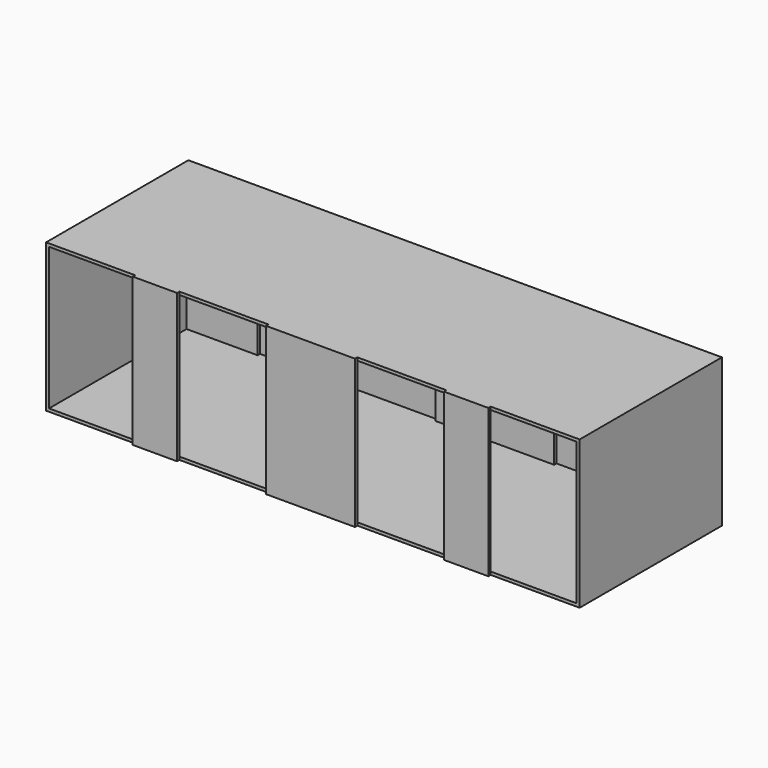
from build123d import *

# Parameters (mm, degrees)
F0_W     = 1800
F0_H     = 500
F1_DEPTH = 600
F2_W     = 1780
F2_H     = 480
F3_DEPTH = 590
F5_W     = 150
F5_H     = 10
F5_W_2   = 300
F7_DEPTH = 500
F6_W     = 240
F6_H     = 480
F6_W_2   = 400
F6_H_2   = 474.8058223724
F8_DEPTH = 10


with BuildPart() as f1:
    # F0 (on Front) → F1 (new body)
    with BuildSketch(Plane.XZ):
        Rectangle(F0_W, F0_H)
    extrude(amount=F1_DEPTH)

    # F2 (on face) → F3 (cut)
    with BuildSketch(Plane.XZ.offset(600)):
        Rectangle(F2_W, F2_H)
    extrude(amount=-F3_DEPTH, mode=Mode.SUBTRACT)

    # F5 (on face) → F7 (join)
    with BuildSketch(Plane(origin=(0, 0, -250), x_dir=(1, 0, 0), z_dir=(0, 0, -1))):
        with Locations((525, 605)):
            Rectangle(F5_W, F5_H)
        with Locations((0, 605)):
            Rectangle(F5_W_2, F5_H)
        with Locations((-525, 605)):
            Rectangle(F5_W, F5_H)
    extrude(amount=-F7_DEPTH)

    # F6 (on face) → F8 (join)
    with BuildSketch(Plane.XZ.offset(10)):
        with Locations((-770, 0)):
            Rectangle(F6_W, F6_H)
        with Locations((150, 0)):
            Rectangle(F6_W_2, F6_H)
        with Locations((770, 2.5970888138)):
            Rectangle(F6_W, F6_H_2)
    extrude(amount=F8_DEPTH)


solid = f1.part
